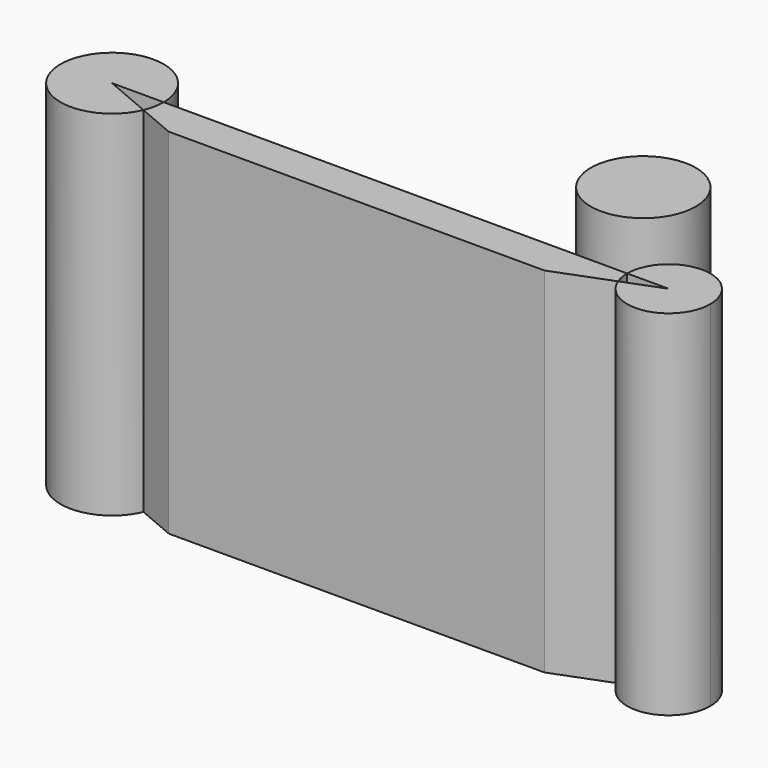
from build123d import *

# Parameters (mm, degrees)
F1_DEPTH = 56.3383996487
F2_R     = 8.361065963
F3_DEPTH = 9.1555975378
F4_DEPTH = 25.4


with BuildPart() as f1:
    # F0 (on Top) → F1 (new body)
    with BuildSketch(Plane.XY):
        with BuildLine():
            Line((-65.6499601901, 0), (-57.4411129349, 0))
            ThreePointArc((-57.4411129349, 0), (-73.6937373632, 1.6379322476), (-58.0947545399, -3.2099907855))
            Line((-58.0947545399, -3.2099907855), (-65.6499601901, 0))
        make_face()
    extrude(amount=F1_DEPTH)


with BuildPart() as f1b:
    # F0 (on Top) → F1, piece 2 (new body)
    with BuildSketch(Plane.XY):
        with BuildLine():
            Line((16.3579449737, 0), (-57.4411129349, 0))
            ThreePointArc((-57.4411129349, 0), (-57.6061830169, -1.6379322476), (-58.0947545399, -3.2099907855))
            Line((-58.0947545399, -3.2099907855), (-51.9946552813, -5.8017484844))
            Line((-51.9946552813, -5.8017484844), (7.8355269507, -5.8017484844))
            Line((7.8355269507, -5.8017484844), (16.7961123026, -2.3678050832))
            ThreePointArc((16.7961123026, -2.3678050832), (16.4684088799, -1.2040028571), (16.3579449737, 0))
        make_face()
    extrude(amount=F1_DEPTH)


with BuildPart() as f1c:
    # F0 (on Top) → F1, piece 3 (new body)
    with BuildSketch(Plane.XY):
        with BuildLine():
            ThreePointArc((29.5914544976, 0), (22.9746997356, 6.616754762), (16.3579449737, 0))
            Line((16.3579449737, 0), (22.9746997356, 0))
            Line((22.9746997356, 0), (16.7961123026, -2.3678050832))
            ThreePointArc((16.7961123026, -2.3678050832), (24.1787025928, -6.5062908558), (29.5914544976, 0))
        make_face()
    extrude(amount=F1_DEPTH)


with BuildPart() as f3:
    # F2 (on Top) → F3 (new body)
    with BuildSketch(Plane.XY):
        with Locations((-22.7302759886, 52.0596653223)):
            Circle(F2_R)
    extrude(amount=F3_DEPTH)

    # F4 (add): a face of the model
    f4_faces = [f3.faces().sort_by_distance(p)[0] for p in [
        (-22.7302759886, 52.0596653223, 9.1555975378),
    ]]
    extrude(f4_faces, amount=F4_DEPTH)


solid = Compound([f1.part, f1b.part, f1c.part, f3.part])
